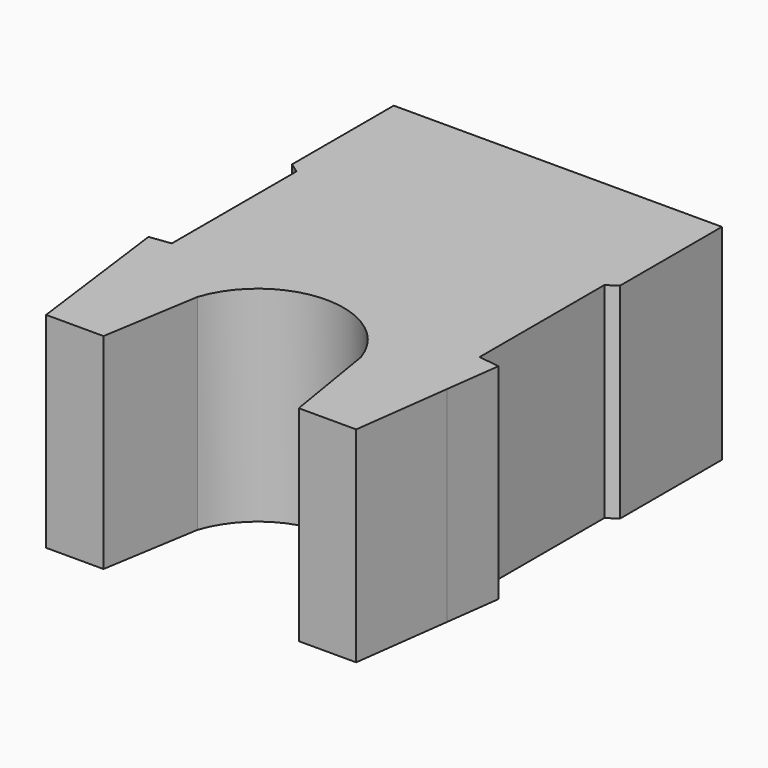
from build123d import *

# Parameters (mm, degrees)
F1_DEPTH = 25


with BuildPart() as f1:
    # F0 (on Top) → F1 (new body)
    with BuildSketch(Plane.XY):
        with BuildLine():
            Line((-18.754395, -10.212941), (-21.332526, -10.549455))
            Line((-21.332526, -10.549455), (-20.452413, -17.292259))
            Line((-20.452413, -17.292259), (-18.899271, -29.191324))
            Line((-18.899271, -29.191324), (-11.899271, -29.191324))
            Line((-11.899271, -29.191324), (-9.952413, -17.292259))
            ThreePointArc((-9.952413, -17.292259), (0, -10.090701), (9.952413, -17.292259))
            Line((9.952413, -17.292259), (11.899271, -29.191324))
            Line((11.899271, -29.191324), (18.899271, -29.191324))
            Line((18.899271, -29.191324), (20.452413, -17.292259))
            Line((20.452413, -17.292259), (21.332526, -10.549455))
            Line((21.332526, -10.549455), (18.754395, -10.212941))
            Line((18.754395, -10.212941), (18.754395, 8.787059))
            Line((18.754395, 8.787059), (19.999506, 9.658895))
            Line((19.999506, 9.658895), (19.999506, 25.158895))
            Line((19.999506, 25.158895), (0.000494, 25.158895))
            Line((0.000494, 25.158895), (-0.000494, 25.158895))
            Line((-0.000494, 25.158895), (-19.999506, 25.158895))
            Line((-19.999506, 25.158895), (-19.999506, 9.658895))
            Line((-19.999506, 9.658895), (-18.754395, 8.787059))
            Line((-18.754395, 8.787059), (-18.754395, -10.212941))
        make_face()
    extrude(amount=F1_DEPTH)


solid = f1.part
